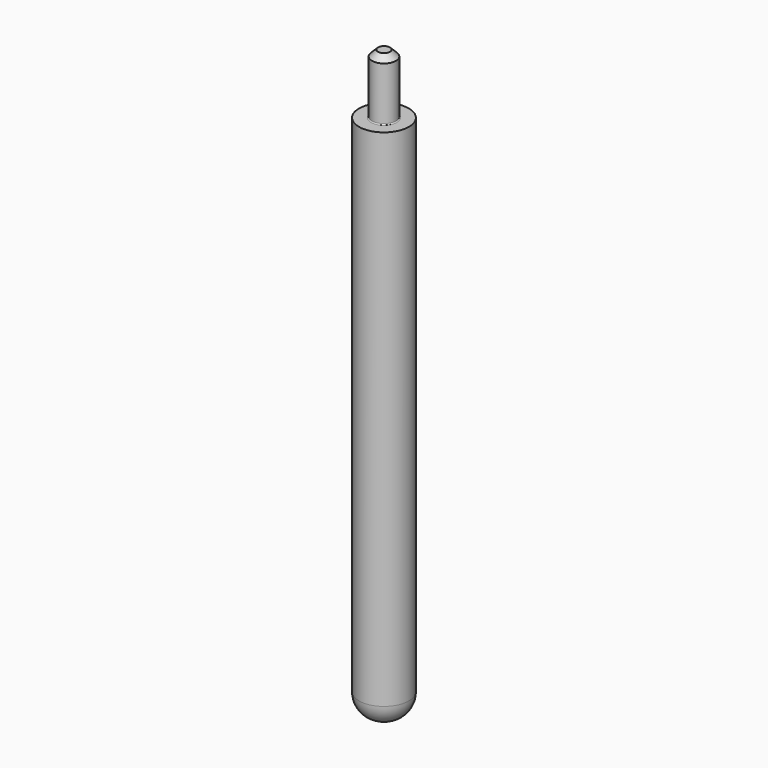
from build123d import *

# Parameters (mm, degrees)
F2_R    = 4.5
F3_SIZE = 1.2
F4_R    = 0.2


with BuildPart() as f1:
    # F0 (on Front) → F1 (revolve)
    with BuildSketch(Plane.XZ):
        Polygon((-2.4, -40.570669), (-5, -40.570669), (-5, -146.320669), (0, -146.320669), (0, -28.570669), (-2.4, -28.570669), align=None)
    revolve(axis=Axis((0, 0, -136.627736), (0, 0, -1)))

    # F2
    f2_edges = [f1.edges().sort_by_distance(p)[0] for p in [
        (5, 0, -146.320669),
    ]]
    fillet(f2_edges, radius=F2_R)

    # F3
    f3_edges = [f1.edges().sort_by_distance(p)[0] for p in [
        (2.4, 0, -28.570669),
    ]]
    chamfer(f3_edges, length=F3_SIZE)

    # F4
    f4_edges = [f1.edges().sort_by_distance(p)[0] for p in [
        (2.4, 0, -40.570669),
    ]]
    fillet(f4_edges, radius=F4_R)


solid = f1.part
